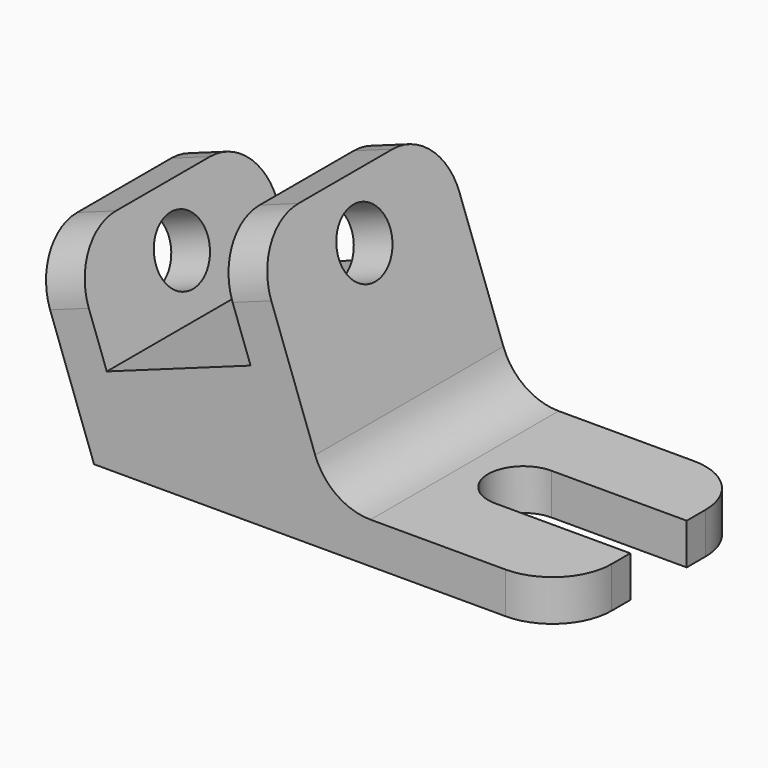
from build123d import *

# Parameters (mm, degrees)
F1_DEPTH = 10
F2_R     = 5
F3_R     = 2.75
F4_DEPTH = 20
F6_DEPTH = 3.5


with BuildPart() as f1:
    # F0 (on Front) → F1 (new body, symmetric)
    with BuildSketch(Plane.XZ):
        with BuildLine():
            Line((-5.4335961189, 15.0491206792), (0, 0))
            Line((0, 0), (40, 0))
            Line((40, 0), (40, 3.5))
            Line((40, 3.5), (23.5106382979, 3.5))
            ThreePointArc((23.5106382979, 3.5), (20.6374861905, 4.4079348774), (18.8077880856, 6.8020012129))
            Line((18.8077880856, 6.8020012129), (13.3778047301, 21.8411158278))
            Line((13.3778047301, 21.8411158278), (10.0858095816, 20.6525166768))
            Line((10.0858095816, 20.6525166768), (13.3120072771, 11.7171012735))
            Line((13.3120072771, 11.7171012735), (1.0845967253, 7.3023044269))
            Line((1.0845967253, 7.3023044269), (-2.1416009703, 16.2377198302))
            Line((-2.1416009703, 16.2377198302), (-5.4335961189, 15.0491206792))
        make_face()
    extrude(amount=F1_DEPTH, both=True)

    # F2
    f2_edges = [f1.edges().sort_by_distance(p)[0] for p in [
        (-3.787599, 10, 15.64342),
        (11.731807, 10, 21.246816),
        (11.731807, -10, 21.246816),
        (-3.787599, -10, 15.64342),
        (40, -10, 1.75),
        (40, 10, 1.75),
    ]]
    fillet(f2_edges, radius=F2_R)

    # F3 (on face) → F4 (cut, through all)
    with BuildSketch(Plane(origin=(18.811400849, 0, 6.7919951486), x_dir=(0, 1, 0), z_dir=(0.9405700424, 0, 0.3395997574))):
        with Locations((0, 11.25)):
            Circle(F3_R)
    extrude(amount=-F4_DEPTH, mode=Mode.SUBTRACT)

    # F5 (on face) → F6 (cut, through all)
    with BuildSketch(Plane.XY.offset(3.5)):
        with BuildLine():
            ThreePointArc((28.5106382979, -3), (30.6319586414, -2.1213203436), (31.5106382979, 0))
            ThreePointArc((31.5106382979, 0), (30.6319586414, 2.1213203436), (28.5106382979, 3))
            ThreePointArc((28.5106382979, 3), (25.5106382979, 0), (28.5106382979, -3))
        make_face()
        with BuildLine():
            ThreePointArc((28.5106382979, 3), (30.6319586414, 2.1213203436), (31.5106382979, 0))
            ThreePointArc((31.5106382979, 0), (30.6319586414, -2.1213203436), (28.5106382979, -3))
            Line((28.5106382979, -3), (40, -3))
            Line((40, -3), (40, 3))
            Line((40, 3), (28.5106382979, 3))
        make_face()
    extrude(amount=-F6_DEPTH, mode=Mode.SUBTRACT)


solid = f1.part
